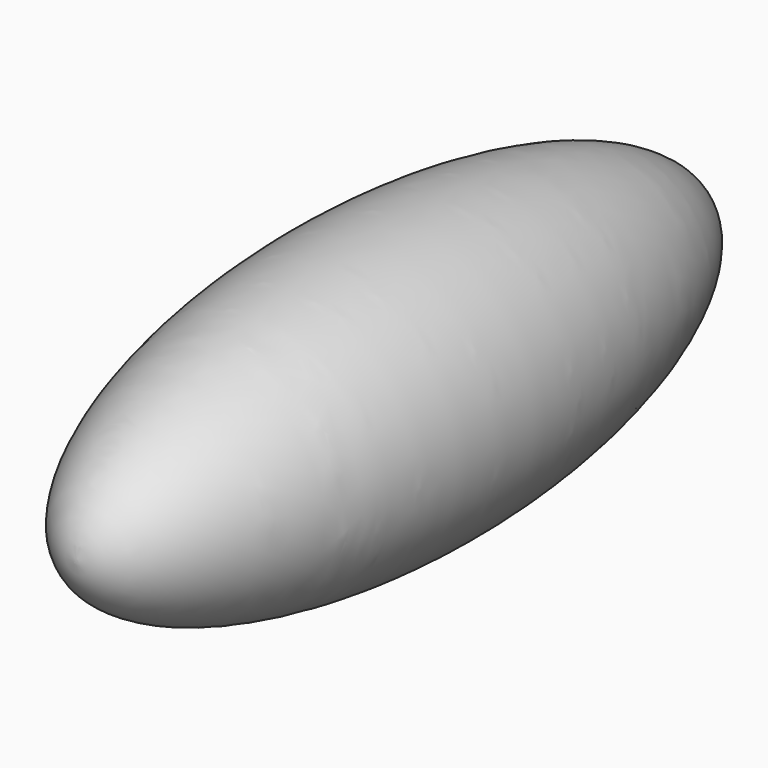
from build123d import *


with BuildPart() as f1:
    # F0 (on Right) → F1 (revolve)
    with BuildSketch(Plane.YZ):
        with BuildLine():
            Line((-175.9499013424, 0), (175.9499013424, 0))
            add(Edge.make_bspline(
                [(175.9499013424, 0), (175.9499013424, 63.9492594241), (0, 63.9492594241), (-175.9499013424, 63.9492594241), (-175.9499013424, 0)],
                knots=[0, 0, 0, 1.5707963268, 1.5707963268, 3.1415926536, 3.1415926536, 3.1415926536], degree=2, weights=[1, 0.7071067812, 1, 0.7071067812, 1]))
        make_face()
    revolve(axis=Axis((0, 0, 0), (0, 1, 0)))


solid = f1.part
